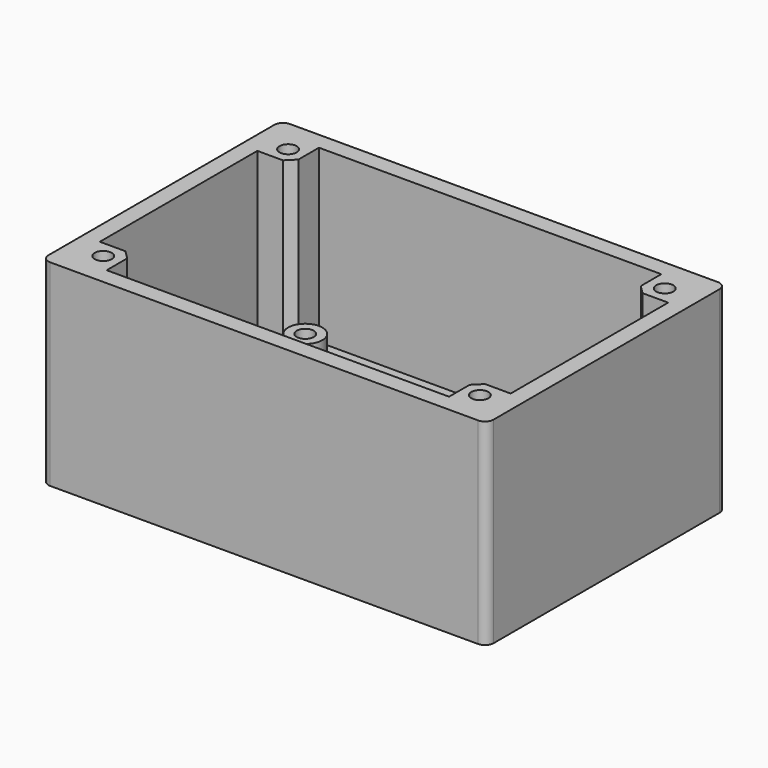
from build123d import *

# Parameters (mm, degrees)
SKETCH_W        = 52
SKETCH_H        = 35
PAD_DEPTH       = 3
SKETCH001_W     = 52
SKETCH001_H     = 35
SKETCH001_W_2   = 48
SKETCH001_H_2   = 31
PAD001_DEPTH    = 20
SKETCH002_W     = 4
SKETCH002_H     = 4
PAD002_DEPTH    = 20
SKETCH003_R     = 2
SKETCH003_R_2   = 1
PAD003_DEPTH    = 5
SKETCH004_W     = 3
SKETCH004_H     = 19
POCKET_DEPTH    = 3
SKETCH005_R     = 1
POCKET001_DEPTH = 5
FILLET_R        = 1
FILLET001_R     = 1
FILLET002_R     = 1
FILLET003_R     = 1
CHAMFER_SIZE    = 1
CHAMFER001_SIZE = 1
CHAMFER002_SIZE = 1
CHAMFER003_SIZE = 1
SKETCH006_R     = 2
POCKET002_DEPTH = 5
SKETCH007_R     = 3
POCKET003_DEPTH = 1


with BuildPart() as part:
    # Sketch → Pad (new body)
    with BuildSketch(Plane.XY):
        with Locations((26, 17.5)):
            Rectangle(SKETCH_W, SKETCH_H)
    extrude(amount=PAD_DEPTH)

    # Sketch001 → Pad001 (new body)
    with BuildSketch(Plane.XY.offset(3)):
        with Locations((26, 17.5)):
            Rectangle(SKETCH001_W, SKETCH001_H)
        with Locations((26, 17.5)):
            Rectangle(SKETCH001_W_2, SKETCH001_H_2, mode=Mode.SUBTRACT)
    extrude(amount=PAD001_DEPTH)

    # Sketch002 → Pad002 (new body)
    with BuildSketch(Plane.XY.offset(3)):
        with Locations((4, 31)):
            Rectangle(SKETCH002_W, SKETCH002_H)
        with Locations((48, 31)):
            Rectangle(SKETCH002_W, SKETCH002_H)
        with Locations((4, 4)):
            Rectangle(SKETCH002_W, SKETCH002_H)
        with Locations((48, 4)):
            Rectangle(SKETCH002_W, SKETCH002_H)
    extrude(amount=PAD002_DEPTH)

    # Sketch003 → Pad003 (new body)
    with BuildSketch(Plane.XY.offset(3)):
        with Locations((36.5, 26)):
            Circle(SKETCH003_R)
        with Locations((36.5, 26)):
            Circle(SKETCH003_R_2, mode=Mode.SUBTRACT)
        with Locations((36.5, 7)):
            Circle(SKETCH003_R)
        with Locations((36.5, 7)):
            Circle(SKETCH003_R_2, mode=Mode.SUBTRACT)
        with Locations((10, 26)):
            Circle(SKETCH003_R)
        with Locations((10, 26)):
            Circle(SKETCH003_R_2, mode=Mode.SUBTRACT)
    extrude(amount=PAD003_DEPTH)

    # Sketch004 → Pocket (cut)
    with BuildSketch(Plane.XY.offset(3)):
        with Locations((46.5, 17.5)):
            Rectangle(SKETCH004_W, SKETCH004_H)
    extrude(amount=-POCKET_DEPTH, mode=Mode.SUBTRACT)

    # Sketch005 → Pocket001 (cut)
    with BuildSketch(Plane.XY.offset(23)):
        with Locations((4, 31)):
            Circle(SKETCH005_R)
        with Locations((48, 31)):
            Circle(SKETCH005_R)
        with Locations((4, 4)):
            Circle(SKETCH005_R)
        with Locations((48, 4)):
            Circle(SKETCH005_R)
    extrude(amount=-POCKET001_DEPTH, mode=Mode.SUBTRACT)

    # Fillet
    fillet_edges = [part.edges().sort_by_distance(p)[0] for p in [
        (0, 0, 11.5),
    ]]
    fillet(fillet_edges, radius=FILLET_R)

    # Fillet001
    fillet001_edges = [part.edges().sort_by_distance(p)[0] for p in [
        (52, 0, 11.5),
    ]]
    fillet(fillet001_edges, radius=FILLET001_R)

    # Fillet002
    fillet002_edges = [part.edges().sort_by_distance(p)[0] for p in [
        (52, 35, 11.5),
    ]]
    fillet(fillet002_edges, radius=FILLET002_R)

    # Fillet003
    fillet003_edges = [part.edges().sort_by_distance(p)[0] for p in [
        (0, 35, 11.5),
    ]]
    fillet(fillet003_edges, radius=FILLET003_R)

    # Chamfer
    chamfer_edges = [part.edges().sort_by_distance(p)[0] for p in [
        (46, 6, 13),
    ]]
    chamfer(chamfer_edges, length=CHAMFER_SIZE)

    # Chamfer001
    chamfer001_edges = [part.edges().sort_by_distance(p)[0] for p in [
        (46, 29, 13),
    ]]
    chamfer(chamfer001_edges, length=CHAMFER001_SIZE)

    # Chamfer002
    chamfer002_edges = [part.edges().sort_by_distance(p)[0] for p in [
        (6, 6, 13),
    ]]
    chamfer(chamfer002_edges, length=CHAMFER002_SIZE)

    # Chamfer003
    chamfer003_edges = [part.edges().sort_by_distance(p)[0] for p in [
        (6, 29, 13),
    ]]
    chamfer(chamfer003_edges, length=CHAMFER003_SIZE)

    # Sketch006 → Pocket002 (cut)
    with BuildSketch(Plane.XY.offset(3)):
        with Locations((15, 17)):
            Circle(SKETCH006_R)
        with Locations((35, 17)):
            Circle(SKETCH006_R)
    extrude(amount=-POCKET002_DEPTH, mode=Mode.SUBTRACT)

    # Sketch007 → Pocket003 (cut)
    with BuildSketch(Plane.XY.offset(3)):
        with Locations((15, 17)):
            Circle(SKETCH007_R)
        with Locations((35, 17)):
            Circle(SKETCH007_R)
    extrude(amount=-POCKET003_DEPTH, mode=Mode.SUBTRACT)


solid = part.part
